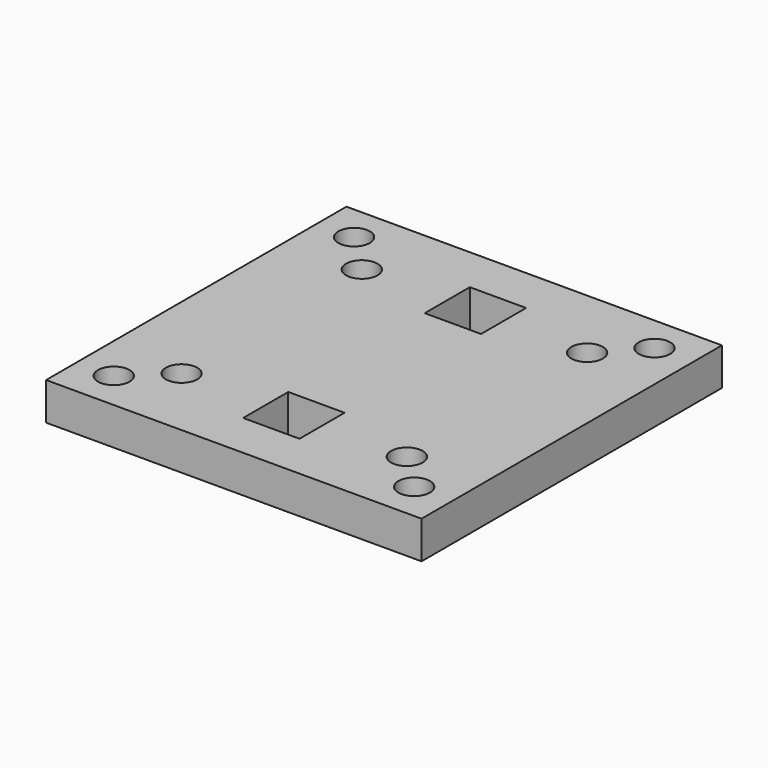
from build123d import *

# Parameters (mm, degrees)
SKETCH044_W     = 100
SKETCH044_H     = 100
PAD009_DEPTH    = 10
SKETCH047_R     = 2.1
POCKET036_DEPTH = 10
SKETCH048_R     = 4.2
POCKET037_DEPTH = 5
SKETCH045_R     = 4.2
SKETCH045_W     = 15
SKETCH045_H     = 15
POCKET038_DEPTH = 10
SKETCH046_R     = 8.4
POCKET039_DEPTH = 5


with BuildPart() as part:
    # Sketch044 → Pad009 (new body)
    with BuildSketch(Plane.XY):
        with Locations((278.148773, 55.911007)):
            Rectangle(SKETCH044_W, SKETCH044_H)
    extrude(amount=PAD009_DEPTH)

    # Sketch047 → Pocket036 (cut)
    with BuildSketch(Plane.XY.offset(10)):
        with Locations((237.948565, 96.209783)):
            Circle(SKETCH047_R)
        with Locations((317.948565, 96.209783)):
            Circle(SKETCH047_R)
        with Locations((237.948565, 16.209783)):
            Circle(SKETCH047_R)
        with Locations((317.948565, 16.209783)):
            Circle(SKETCH047_R)
    extrude(amount=-POCKET036_DEPTH, mode=Mode.SUBTRACT)

    # Sketch048 (on Face5 of Pocket036) → Pocket037 (cut)
    with BuildSketch(Plane.XY.offset(10)):
        with Locations((237.975067, 96.170716)):
            Circle(SKETCH048_R)
        with Locations((317.975067, 96.170716)):
            Circle(SKETCH048_R)
        with Locations((237.975067, 16.170716)):
            Circle(SKETCH048_R)
        with Locations((317.975067, 16.170716)):
            Circle(SKETCH048_R)
    extrude(amount=-POCKET037_DEPTH, mode=Mode.SUBTRACT)

    # Sketch045 → Pocket038 (cut)
    with BuildSketch(Plane(origin=(-36, -54, 0), x_dir=(1, 0, 0), z_dir=(0, 0, 1))):
        with Locations((284.333469, 139.793406)):
            Circle(SKETCH045_R)
        with Locations((344.333469, 139.793406)):
            Circle(SKETCH045_R)
        with Locations((284.333469, 79.793406)):
            Circle(SKETCH045_R)
        with Locations((344.333469, 79.793406)):
            Circle(SKETCH045_R)
        with Locations((314.333469, 140.10933)):
            Rectangle(SKETCH045_W, SKETCH045_H)
        with Locations((314.333469, 79.675171)):
            Rectangle(SKETCH045_W, SKETCH045_H)
    extrude(amount=POCKET038_DEPTH, mode=Mode.SUBTRACT)

    # Sketch046 → Pocket039 (cut)
    with BuildSketch(Plane(origin=(-36, -54, 0), x_dir=(1, 0, 0), z_dir=(0, 0, 1))):
        with Locations((284.232884, 139.768659)):
            Circle(SKETCH046_R)
        with Locations((344.232884, 139.768659)):
            Circle(SKETCH046_R)
        with Locations((284.232884, 79.768659)):
            Circle(SKETCH046_R)
        with Locations((344.232884, 79.768659)):
            Circle(SKETCH046_R)
    extrude(amount=POCKET039_DEPTH, mode=Mode.SUBTRACT)


with BuildPart() as part_1:
    # Body005 placement: moved
    add(part.part.moved(Location((-277.9, -14.5, 317))))


solid = part_1.part
